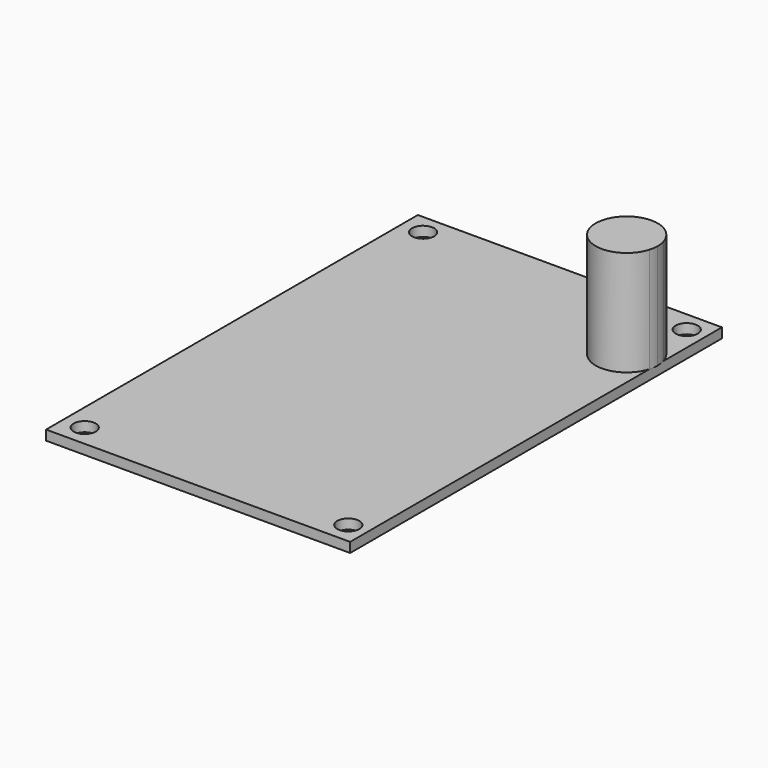
from build123d import *

# Parameters (mm, degrees)
F0_W     = 49.6
F0_H     = 75.8
F0_R     = 1.8
F1_DEPTH = 1.6
F3_DEPTH = 17.15


with BuildPart() as f1:
    # F0 (on Top) → F1 (new body)
    with BuildSketch(Plane.XY):
        Rectangle(F0_W, F0_H)
        with Locations((-21.3, -34.4)):
            Circle(F0_R, mode=Mode.SUBTRACT)
        with Locations((21.7, -34.4)):
            Circle(F0_R, mode=Mode.SUBTRACT)
        with Locations((-21.3, 34.6)):
            Circle(F0_R, mode=Mode.SUBTRACT)
        with Locations((21.7, 34.6)):
            Circle(F0_R, mode=Mode.SUBTRACT)
    extrude(amount=F1_DEPTH)

    # F2 (on face) → F3 (join)
    with BuildSketch(Plane.XY.offset(1.6)):
        with BuildLine():
            ThreePointArc((24.8, 23.130097), (24.951367, 23.830551), (25.002163, 24.545371))
            ThreePointArc((25.002163, 24.545371), (24.951367, 25.26019), (24.8, 25.960644))
            Line((24.8, 25.960644), (24.8, 23.130097))
        make_face()
        with BuildLine():
            Line((24.8, 23.130097), (24.8, 25.960644))
            ThreePointArc((24.8, 25.960644), (14.892163, 24.545371), (24.8, 23.130097))
        make_face()
    extrude(amount=F3_DEPTH)


solid = f1.part
